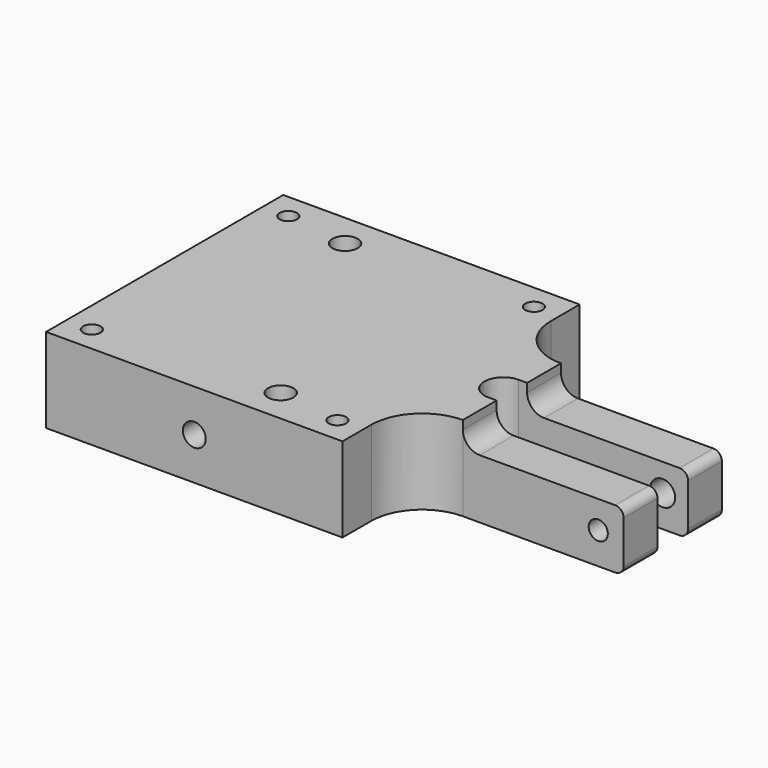
from build123d import *

# Parameters (mm, degrees)
F1_DEPTH         = 10
F3_D             = 2.05
F4_D             = 3
F4_DEPTH         = 5
F4_TIP           = 0.9012909285
F5_R             = 6
F7_DEPTH         = 24.751
F8_R             = 1
F10_D            = 2.9464
F10_DEPTH        = 5
F10_TIP          = 0.885187864
F12_D            = 2.2606
F12_DEPTH        = 5
F12_TIP          = 0.6791527577
F15_D            = 2.7051
F15_DEPTH        = 7
F15_TIP          = 0.8126940303
F15_ON_F14_D     = 2.7051
F15_ON_F14_DEPTH = 7
F15_ON_F14_TIP   = 0.8126940303


with BuildPart() as f1:
    # F0 (on Top) → F1 (new body)
    with BuildSketch(Plane.XY):
        with BuildLine():
            Line((0, 35), (0, 0))
            Line((0, 0), (35, 0))
            Line((35, 0), (35, 10.25))
            Line((35, 10.25), (60, 10.25))
            Line((60, 10.25), (60, 15.25))
            Line((60, 15.25), (40, 15.25))
            ThreePointArc((40, 15.25), (37.75, 17.5), (40, 19.75))
            Line((40, 19.75), (60, 19.75))
            Line((60, 19.75), (60, 24.75))
            Line((60, 24.75), (35, 24.75))
            Line((35, 24.75), (35, 35))
            Line((35, 35), (0, 35))
        make_face()
    extrude(amount=F1_DEPTH)

    # F3 (through all)
    with Locations(Plane.XY.offset(10)):
        with Locations((3, 32), (32, 32), (32, 3), (3, 3)):
            Hole(F3_D / 2)

    # F4
    with Locations(Plane.XY.offset(10)):
        with Locations((10.5, 31), (24.5, 4)):
            Hole(F4_D / 2, depth=F4_DEPTH)
            with Locations((0, 0, -(F4_DEPTH + F4_TIP / 2))):  # 118° drill point
                Cone(0, F4_D / 2, F4_TIP, mode=Mode.SUBTRACT)

    # F5
    f5_edges = [f1.edges().sort_by_distance(p)[0] for p in [
        (35, 10.25, 5),
        (35, 24.75, 5),
    ]]
    fillet(f5_edges, radius=F5_R)

    # F6 (on face) → F7 (cut, through all)
    with BuildSketch(Plane.XZ.offset(-10.25)):
        with BuildLine():
            Line((43, 7), (60, 7))
            Line((60, 7), (60, 10))
            Line((60, 10), (41, 10))
            Line((41, 10), (41, 9))
            ThreePointArc((41, 9), (41.5857864376, 7.5857864376), (43, 7))
        make_face()
    extrude(amount=-F7_DEPTH, mode=Mode.SUBTRACT)

    # F8
    f8_edges = [f1.edges().sort_by_distance(p)[0] for p in [
        (60, 12.75, 7),
        (60, 22.25, 7),
        (60, 22.25, 0),
        (60, 12.75, 0),
    ]]
    fillet(f8_edges, radius=F8_R)

    # F10
    with Locations(Plane(origin=(0, 24.75, 0), x_dir=(-1, 0, 0), z_dir=(0, 1, 0))):
        with Locations((-57, 3.75)):
            Hole(F10_D / 2, depth=F10_DEPTH)
            with Locations((0, 0, -(F10_DEPTH + F10_TIP / 2))):  # 118° drill point
                Cone(0, F10_D / 2, F10_TIP, mode=Mode.SUBTRACT)

    # F12
    with Locations(Plane.XZ.offset(-10.25)):
        with Locations((57, 3.75)):
            Hole(F12_D / 2, depth=F12_DEPTH)
            with Locations((0, 0, -(F12_DEPTH + F12_TIP / 2))):  # 118° drill point
                Cone(0, F12_D / 2, F12_TIP, mode=Mode.SUBTRACT)

    # F15
    with Locations(Plane(origin=(0, 35, 0), x_dir=(-1, 0, 0), z_dir=(0, 1, 0))):
        with Locations((-17.5, 5)):
            Hole(F15_D / 2, depth=F15_DEPTH)
            with Locations((0, 0, -(F15_DEPTH + F15_TIP / 2))):  # 118° drill point
                Cone(0, F15_D / 2, F15_TIP, mode=Mode.SUBTRACT)

    # F15 on F14
    with Locations(Plane.XZ):
        with Locations((17.5, 5)):
            Hole(F15_ON_F14_D / 2, depth=F15_ON_F14_DEPTH)
            with Locations((0, 0, -(F15_ON_F14_DEPTH + F15_ON_F14_TIP / 2))):  # 118° drill point
                Cone(0, F15_ON_F14_D / 2, F15_ON_F14_TIP, mode=Mode.SUBTRACT)


solid = f1.part
